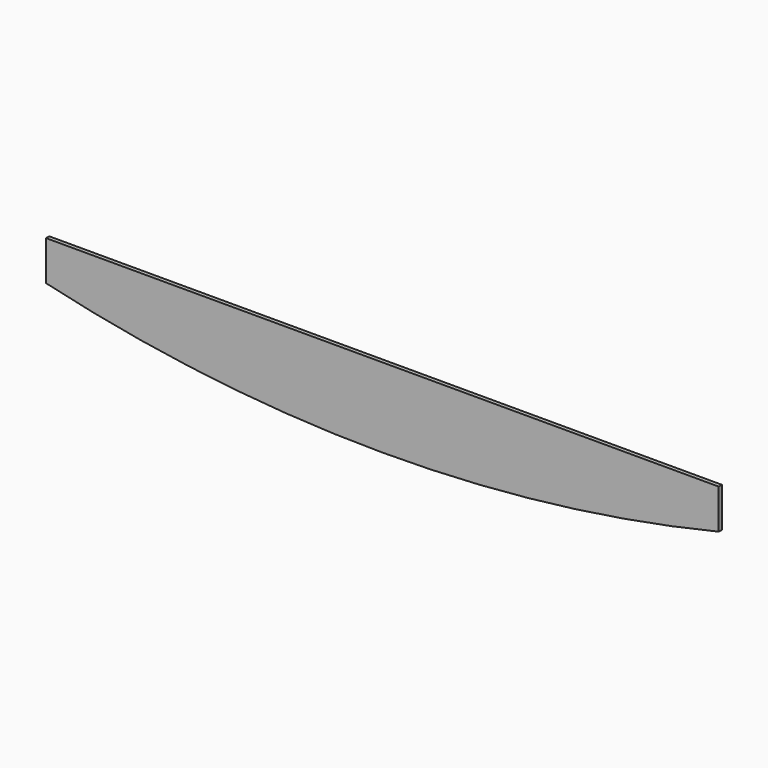
from build123d import *

# Parameters (mm, degrees)
F1_DEPTH = 5


with BuildPart() as f1:
    # F0 (on Front) → F1 (new body)
    with BuildSketch(Plane.XZ):
        with BuildLine():
            ThreePointArc((-423.5, 0), (-213.220686, -37.456742), (6e-06, -50))
            ThreePointArc((6e-06, -50), (213.220693, -37.456741), (423.5, 0))
            Line((423.5, 0), (423.5, 50))
            Line((423.5, 50), (-423.5, 50))
            Line((-423.5, 50), (-423.5, 0))
        make_face()
    extrude(amount=F1_DEPTH)


solid = f1.part
